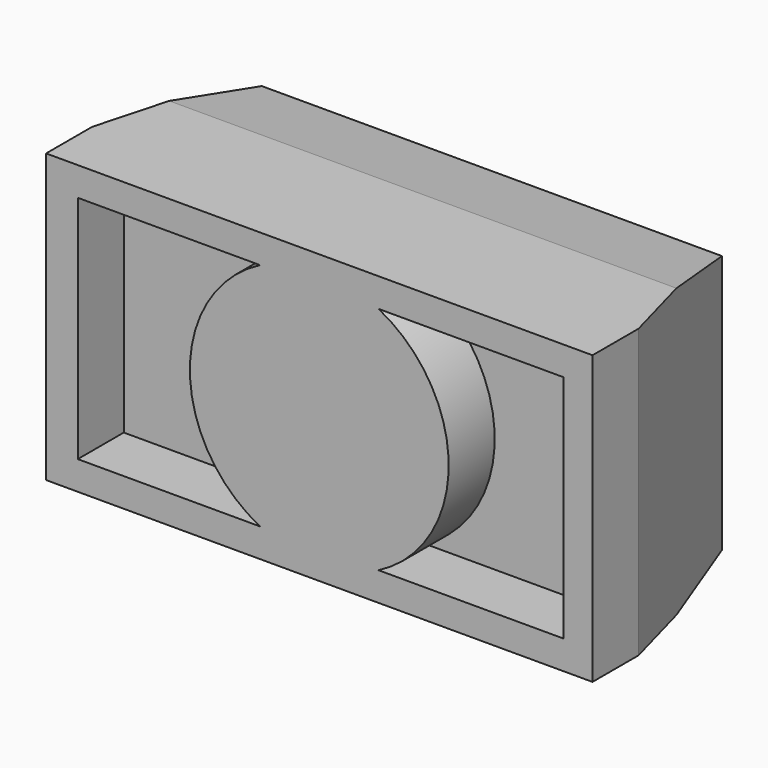
from build123d import *

# Parameters (mm, degrees)
SKETCH005_W      = 16.898421
SKETCH005_H      = 8
EXTRUDE004_DEPTH = 2.5
SKETCH_W         = 19
SKETCH_H         = 2
EXTRUDE_DEPTH    = 10
SKETCH012_R      = 4.5
EXTRUDE009_DEPTH = 2
EXTRUDE008_DEPTH = 19
SKETCH003_W      = 14
SKETCH003_H      = 8
EXTRUDE002_DEPTH = 3.75
EXTRUDE001_DEPTH = 10


with BuildPart() as extrude004:
    # Sketch005 (on Face2 of Extrude) → Extrude004 (new body, symmetric)
    with BuildSketch(Plane.XZ):
        with Locations((0.05079, 5)):
            Rectangle(SKETCH005_W, SKETCH005_H)
    extrude(amount=EXTRUDE004_DEPTH, both=True)


with BuildPart() as cut001:
    # Sketch → Extrude (new body)
    with BuildSketch(Plane.XY):
        with Locations((0, 1)):
            Rectangle(SKETCH_W, SKETCH_H)
    extrude(amount=EXTRUDE_DEPTH)

    # Cut001: cut Extrude004
    add(extrude004.part, mode=Mode.SUBTRACT)


with BuildPart() as extrude009:
    # Sketch012 (on Face7 of Common) → Extrude009 (new body)
    with BuildSketch(Plane.XZ.offset(-2)):
        with Locations((0, 5)):
            Circle(SKETCH012_R)
    extrude(amount=EXTRUDE009_DEPTH)


with BuildPart() as extrude008:
    # Sketch011 (on Face1 of Cut001) → Extrude008 (new body)
    with BuildSketch(Plane(origin=(-9.5, 0, 0), x_dir=(0, -1, 0), z_dir=(-1, 0, 0))):
        Polygon((-1.5, 10.5), (-7.5, 9.5), (-7.5, 0.5), (-1.5, -0.5), align=None)
    extrude(amount=-EXTRUDE008_DEPTH)


with BuildPart() as extrude002:
    # Sketch003 (on Face2 of Extrude001) → Extrude002 (new body, symmetric)
    with BuildSketch(Plane(origin=(0, 7.5, 0), x_dir=(-1, 0, 0), z_dir=(0, 1, 0))):
        with Locations((0, 5)):
            Rectangle(SKETCH003_W, SKETCH003_H)
    extrude(amount=EXTRUDE002_DEPTH, both=True)


with BuildPart() as fusion002:
    # Sketch001 → Extrude001 (new body)
    with BuildSketch(Plane.XY):
        Polygon((-9.5, 2), (-8, 7.5), (8, 7.5), (9.5, 2), align=None)
    extrude(amount=EXTRUDE001_DEPTH)

    # Cut: cut Extrude002
    add(extrude002.part, mode=Mode.SUBTRACT)

    # Common: intersect Extrude008
    add(extrude008.part, mode=Mode.INTERSECT)

    # Fusion001: union Extrude009
    add(extrude009.part)

    # Fusion002: union Cut001
    add(cut001.part)


solid = fusion002.part
